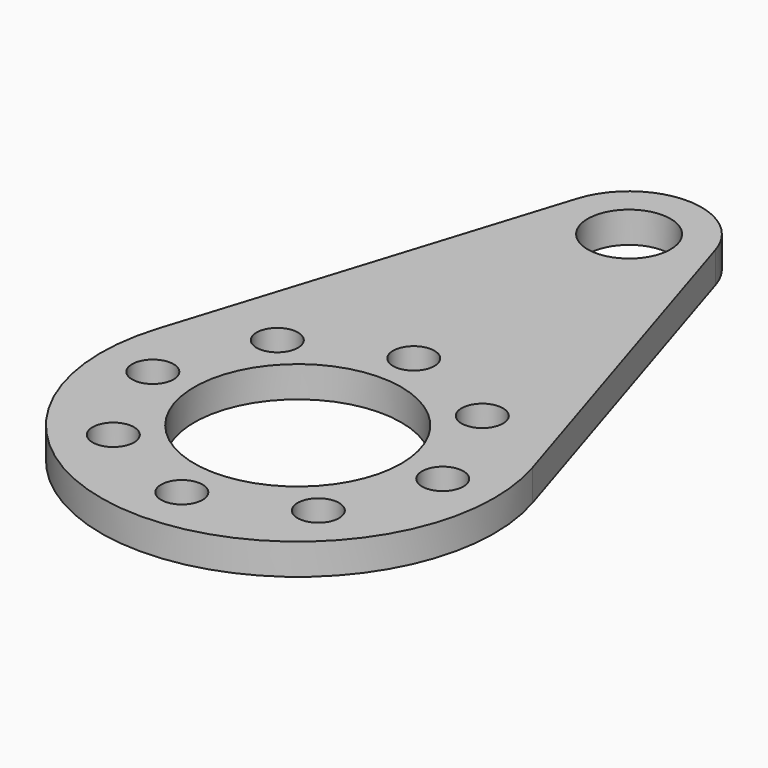
from build123d import *

# Parameters (mm, degrees)
F0_R     = 1
F0_R_2   = 5
F0_R_3   = 2
F1_DEPTH = 1.5


with BuildPart() as f1:
    # F0 (on Top) → F1 (new body)
    with BuildSketch(Plane.XY):
        with BuildLine():
            Line((9.062422, 2.85), (3.338787, 21.05))
            ThreePointArc((3.338787, 21.05), (0, 23.5), (-3.338787, 21.05))
            Line((-3.338787, 21.05), (-9.062422, 2.85))
            ThreePointArc((-9.062422, 2.85), (0, -9.5), (9.062422, 2.85))
        make_face()
        with Locations((-4.949747, -4.949747)):
            Circle(F0_R, mode=Mode.SUBTRACT)
        with Locations((-7, 0)):
            Circle(F0_R, mode=Mode.SUBTRACT)
        with Locations((-4.949747, 4.949747)):
            Circle(F0_R, mode=Mode.SUBTRACT)
        with Locations((0, -7)):
            Circle(F0_R, mode=Mode.SUBTRACT)
        with Locations((4.949747, -4.949747)):
            Circle(F0_R, mode=Mode.SUBTRACT)
        Circle(F0_R_2, mode=Mode.SUBTRACT)
        with Locations((7, 0)):
            Circle(F0_R, mode=Mode.SUBTRACT)
        with Locations((4.949747, 4.949747)):
            Circle(F0_R, mode=Mode.SUBTRACT)
        with Locations((0, 7)):
            Circle(F0_R, mode=Mode.SUBTRACT)
        with Locations((0, 20)):
            Circle(F0_R_3, mode=Mode.SUBTRACT)
    extrude(amount=F1_DEPTH)


solid = f1.part
